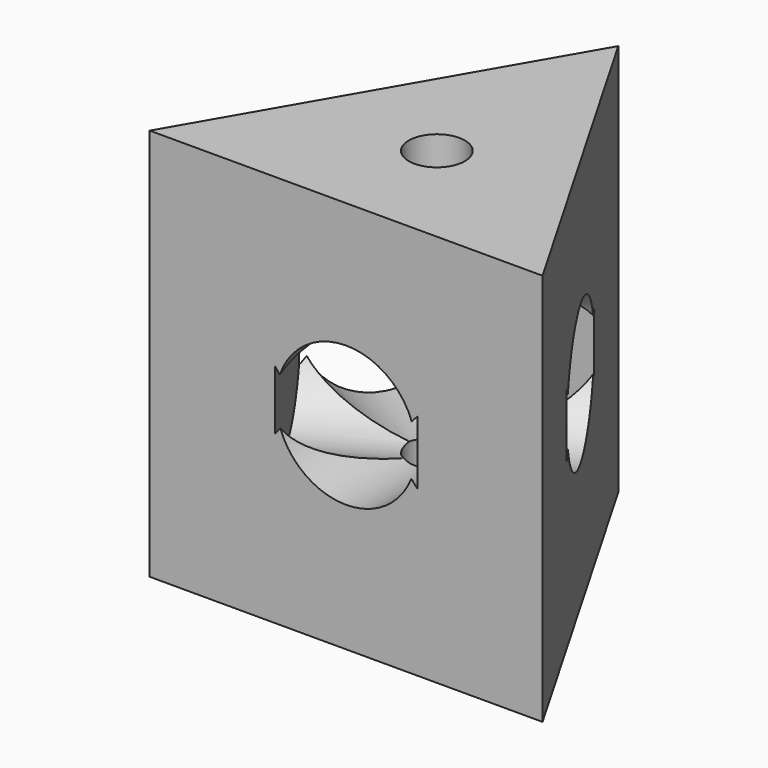
from build123d import *

# Parameters (mm, degrees)
F1_DEPTH = 7
F4_R     = 1.25
F5_DEPTH = 4.13
F2_R     = 1.25
F6_DEPTH = 4.13
F3_R     = 1.25
F7_DEPTH = 4.13
F8_R     = 0.5
F9_DEPTH = 25


with BuildPart() as f1:
    # F0 (on Top) → F1 (new body)
    with BuildSketch(Plane.XY):
        Polygon((-16.570514, -15.838828), (-20.070514, -21.901006), (-13.070514, -21.901006), align=None)
    extrude(amount=F1_DEPTH)

    # F4 (on face) → F5 (cut)
    with BuildSketch(Plane.XZ.offset(21.901006)):
        with Locations((-16.570514, 3.516926)):
            Circle(F4_R)
    extrude(amount=-F5_DEPTH, mode=Mode.SUBTRACT)

    # F2 (on face) → F6 (cut)
    with BuildSketch(Plane(origin=(-19.286299, -11.13495, 0), x_dir=(-0.5, 0.866025, 0), z_dir=(0.866025, 0.5, 0))):
        with Locations((-8.914862, 3.5)):
            Circle(F2_R)
    extrude(amount=-F6_DEPTH, mode=Mode.SUBTRACT)

    # F3 (on face) → F7 (cut)
    with BuildSketch(Plane(origin=(-5.569472, 3.215536, 0), x_dir=(-0.5, -0.866025, 0), z_dir=(-0.866025, 0.5, 0))):
        with Locations((25.502084, 3.5)):
            Circle(F3_R)
    extrude(amount=-F7_DEPTH, mode=Mode.SUBTRACT)

    # F8 (on face) → F9 (cut)
    with BuildSketch(Plane(origin=(0, 0, 0), x_dir=(1, 0, 0), z_dir=(0, 0, -1))):
        with Locations((-16.570514, 19.88028)):
            Circle(F8_R)
    extrude(amount=-F9_DEPTH, mode=Mode.SUBTRACT)


solid = f1.part
